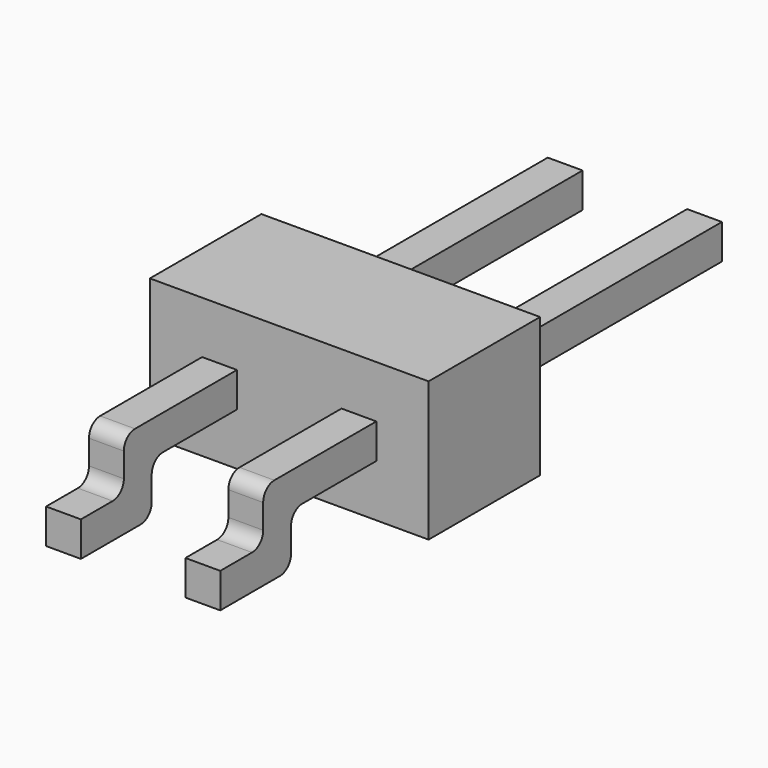
from build123d import *

# Parameters (mm, degrees)
F0_W     = 4
F0_H     = 2
F1_DEPTH = 2
F2_W     = 0.5
F2_H     = 0.5
F3_DEPTH = 4.2
F5_DEPTH = 2.5
F6_W     = 1.5
F6_H     = 1.436406
F7_DEPTH = 2.8


with BuildPart() as f1:
    # F0 (on Top) → F1 (new body)
    with BuildSketch(Plane.XY):
        Rectangle(F0_W, F0_H)
    extrude(amount=F1_DEPTH)


with BuildPart() as f3:
    # F2 (on face) → F3 (new body)
    with BuildSketch(Plane(origin=(0, 1, 0), x_dir=(-1, 0, 0), z_dir=(0, 1, 0))):
        with Locations((-1, 1)):
            Rectangle(F2_W, F2_H)
        with Locations((1, 1)):
            Rectangle(F2_W, F2_H)
    extrude(amount=F3_DEPTH)


with BuildPart() as f5:
    # F4 (on face) → F5 (new body)
    with BuildSketch(Plane.YZ.offset(1.25)):
        with BuildLine():
            Line((-2.33, 0.75), (-1, 0.75))
            Line((-1, 0.75), (-1, 1.25))
            Line((-1, 1.25), (-2.53, 1.25))
            Line((-2.53, 1.25), (-2.83, 1.25))
            ThreePointArc((-2.83, 1.25), (-2.971421, 1.191421), (-3.03, 1.05))
            Line((-3.03, 1.05), (-3.03, 0.7))
            ThreePointArc((-3.03, 0.7), (-3.088579, 0.558579), (-3.23, 0.5))
            Line((-3.23, 0.5), (-3.8, 0.5))
            Line((-3.8, 0.5), (-3.8, 0))
            Line((-3.8, 0), (-2.73, 0))
            ThreePointArc((-2.73, 0), (-2.588579, 0.058579), (-2.53, 0.2))
            Line((-2.53, 0.2), (-2.53, 0.55))
            ThreePointArc((-2.53, 0.55), (-2.471421, 0.691421), (-2.33, 0.75))
        make_face()
    extrude(amount=-F5_DEPTH)

    # F6 (on face) → F7 (cut)
    with BuildSketch(Plane.XZ.offset(3.8)):
        with Locations((0, 0.718203)):
            Rectangle(F6_W, F6_H)
    extrude(amount=-F7_DEPTH, mode=Mode.SUBTRACT)


solid = Compound([f1.part, f3.part, f5.part])
